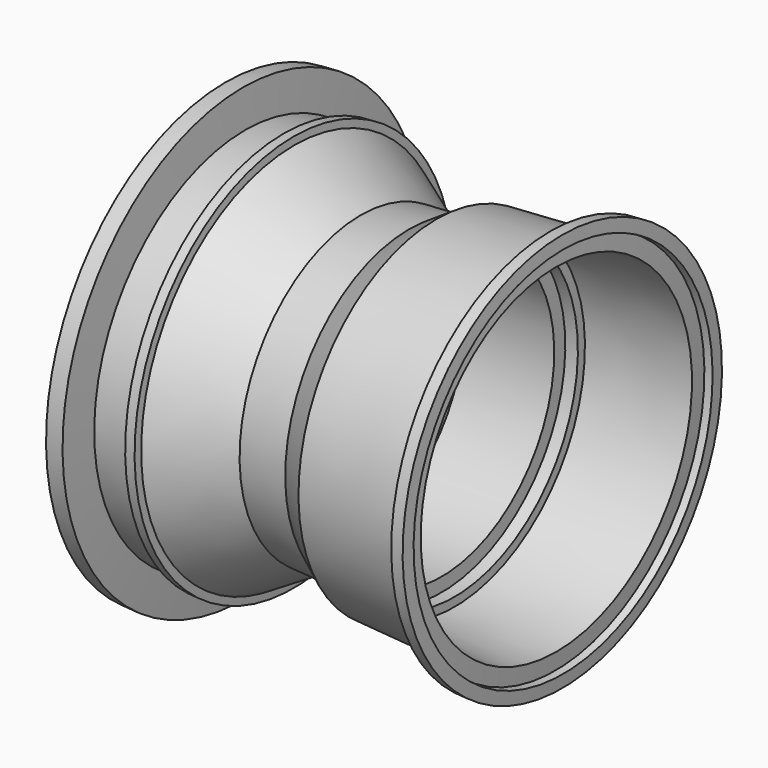
from build123d import *


with BuildPart() as f1:
    # F0 (on Front) → F1 (revolve)
    with BuildSketch(Plane.XZ):
        Polygon((-27.788748, 0), (0, 0), (0, 33.751547), (-12.720183, 33.751547), (-12.720183, 44.158597), (-31.642087, 44.158597), (-31.642087, 105.654784), (35.530671, 105.654784), (35.530671, 116.061829), (44.99162, 116.061829), (44.99162, 122.684501), (121.625327, 127.414972), (120.844814, 140.059286), (126.697357, 140.420553), (126.106611, 149.990642), (117.117492, 149.435759), (107.320793, 134.347484), (31.596398, 129.673143), (10.768152, 116.061829), (-25.32796, 113.833676), (-75.402483, 143.691286), (-75.75708, 149.435759), (-83.194812, 148.97664), (-82.868556, 143.691286), (-112.115114, 141.885945), (-113.820784, 169.517833), (-126.863957, 168.7127), (-126.462375, 162.207067), (-118.379816, 162.705989), (-118.379816, 127.414972), (-75.402483, 130.06789), (-46.85197, 105.654784), (-46.85197, 33.751547), (-27.788748, 34.928288), align=None)
    revolve(axis=Axis((-13.894374, 0, 0), (1, 0, 0)))


solid = f1.part
